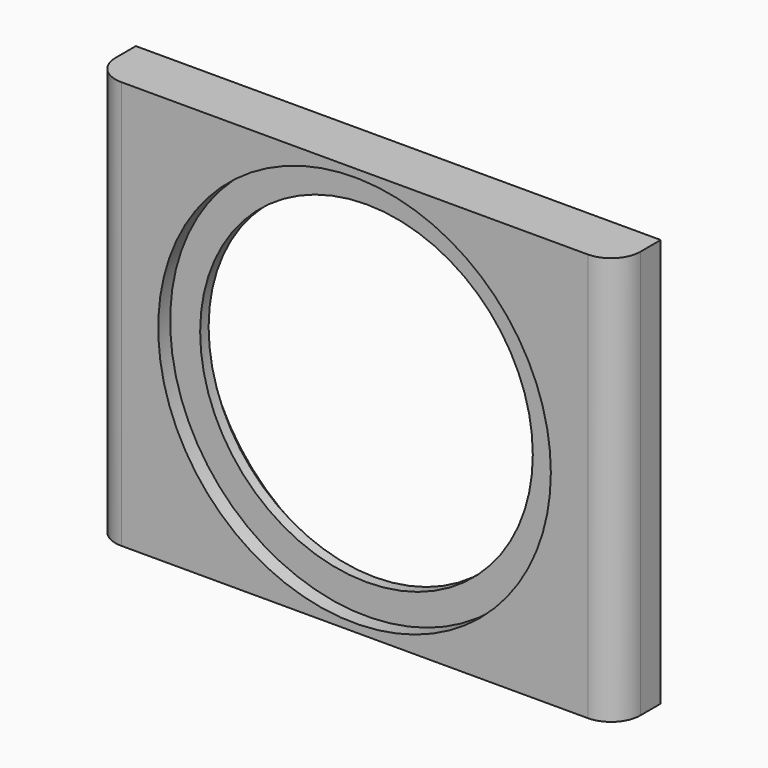
from build123d import *

# Parameters (mm, degrees)
F0_W     = 228.6
F0_H     = 177.8
F1_DEPTH = 23.8125
F2_R     = 72.445
F3_DEPTH = 25.4
F2_R_2   = 85.5
F4_DEPTH = 6.5
F5_R     = 12.7
F6_R     = 12.7
F7_SIZE  = 12.7


with BuildPart() as f1:
    # F0 (on Front) → F1 (new body)
    with BuildSketch(Plane.XZ):
        with Locations((-38.534197, -24.81398)):
            Rectangle(F0_W, F0_H)
    extrude(amount=F1_DEPTH)

    # F2 (on face) → F3 (cut)
    with BuildSketch(Plane.XZ.offset(23.8125)):
        with Locations((-38.534197, -24.81398)):
            Circle(F2_R)
    extrude(amount=-F3_DEPTH, mode=Mode.SUBTRACT)

    # F2 (on face) → F4 (cut)
    with BuildSketch(Plane.XZ.offset(23.8125)):
        with Locations((-38.534197, -24.81398)):
            Circle(F2_R_2)
        with Locations((-38.534197, -24.81398)):
            Circle(F2_R, mode=Mode.SUBTRACT)
    extrude(amount=-F4_DEPTH, mode=Mode.SUBTRACT)

    # F5
    f5_edges = [f1.edges().sort_by_distance(p)[0] for p in [
        (75.765803, -23.8125, -24.81398),
    ]]
    fillet(f5_edges, radius=F5_R)

    # F6
    f6_edges = [f1.edges().sort_by_distance(p)[0] for p in [
        (-152.834197, -23.8125, -24.81398),
    ]]
    fillet(f6_edges, radius=F6_R)

    # F7
    f7_edges = [f1.edges().sort_by_distance(p)[0] for p in [
        (-110.979197, 0, -24.81398),
    ]]
    chamfer(f7_edges, length=F7_SIZE)


solid = f1.part
